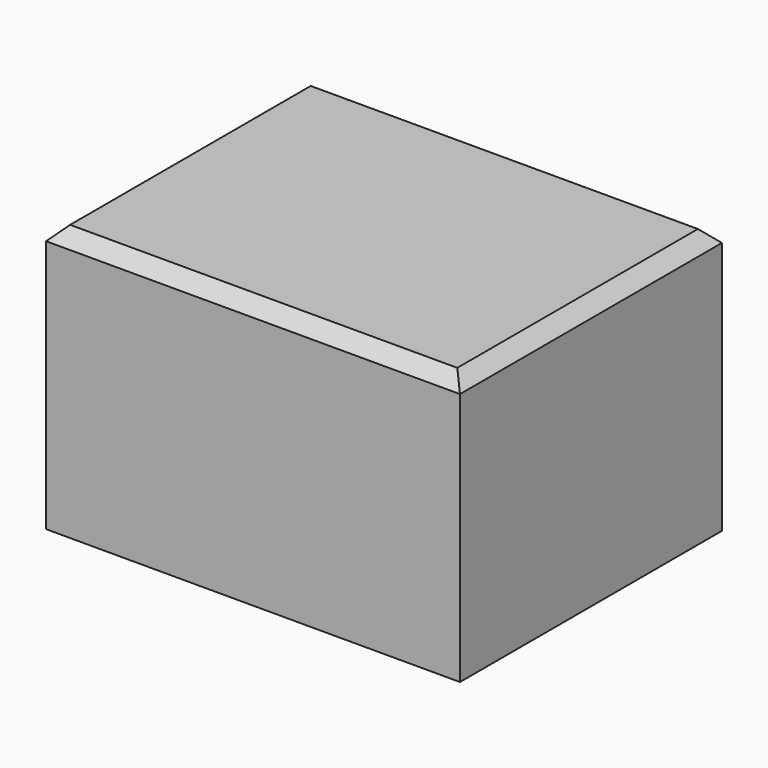
from build123d import *

# Parameters (mm, degrees)
F0_W     = 78.791332
F0_H     = 62.333833
F1_DEPTH = 50.8
F2_SIZE2 = 2.54
F2_SIZE  = 2.54


with BuildPart() as f1:
    # F0 (on Top) → F1 (new body)
    with BuildSketch(Plane.XY):
        with Locations((-1.808798, -3.658226)):
            Rectangle(F0_W, F0_H)
    extrude(amount=F1_DEPTH)

    # F2
    f2_edges = [f1.edges().sort_by_distance(p)[0] for p in [
        (-1.808798, 27.508691, 50.8),
        (-41.204464, -3.658226, 50.8),
        (-1.808798, -34.825142, 50.8),
        (37.586868, -3.658226, 50.8),
    ]]
    chamfer(f2_edges, length=F2_SIZE, length2=F2_SIZE2)


solid = f1.part
